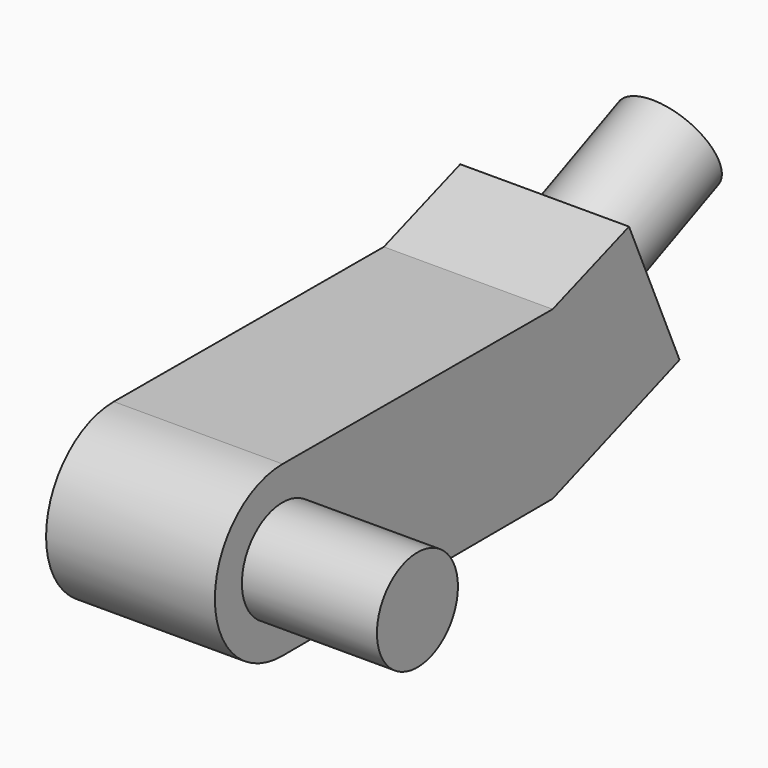
from build123d import *

# Parameters (mm, degrees)
F1_DEPTH = 5
F3_R     = 1.5
F4_DEPTH = 4
F2_R     = 1.5
F5_DEPTH = 4


with BuildPart() as f1:
    # F0 (on Right) → F1 (new body)
    with BuildSketch(Plane.YZ):
        Polygon((9.9999599028, -0.028318582), (0, 0), (0, -5), (9.9999599028, -4.971681418), (14.6977243388, -3.2596623456), (12.8266741155, 0.9765131251), align=None)
        with BuildLine():
            Line((0, -5), (0, 0))
            ThreePointArc((0, 0), (-2.5070896982, -2.5), (0, -5))
        make_face()
    extrude(amount=F1_DEPTH)

    # F3 (on face) → F4 (join)
    with BuildSketch(Plane.YZ.offset(5)):
        with Locations((-0.0070796739, -2.5)):
            Circle(F3_R)
    extrude(amount=F4_DEPTH)

    # F2 (on face) → F5 (join)
    with BuildSketch(Plane(origin=(0, 11.0937619601, 4.8999353157), x_dir=(-1, 0, 0), z_dir=(0, 0.9147463248, 0.4040286639))):
        with Locations((-2.5, -6.6045741447)):
            Circle(F2_R)
    extrude(amount=F5_DEPTH)


solid = f1.part
